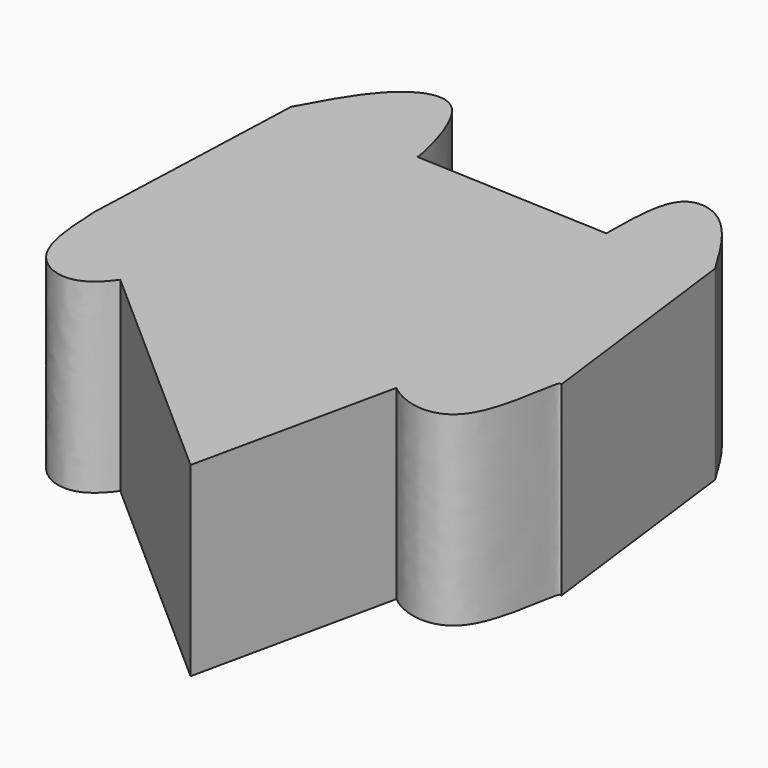
from build123d import *

# Parameters (mm, degrees)
F1_DEPTH = 25


with BuildPart() as f1:
    # F0 (on Top) → F1 (new body)
    with BuildSketch(Plane.XY):
        with BuildLine():
            Line((-18.293430627, 0), (-37.4506600201, 31.5296053886))
            Line((-37.4506600201, 31.5296053886), (-38.6348702013, 0))
            Line((-38.6348702013, 0), (-26.8903197752, -10.3558365563))
            add(Edge.make_bspline(
                [(-26.8903197752, -10.3558365563), (-25.0138511487, -7.7621292657), (-23.3868603398, -3.8810646329), (-21.7598695308, 0)],
                knots=[0.7369926577, 0.7369926577, 0.7369926577, 0.7369926577, 1, 1, 1, 1], degree=3))
            Line((-21.7598695308, 0), (-18.293430627, 0))
        make_face()
        with BuildLine():
            add(Edge.make_bspline(
                [(-37.4506600201, 31.5296053886), (-35.315109491, 35.4914243796), (-31.6617104803, 42.2691172437), (-22.7549071417, 44.5389864619), (-19.8868391117, 31.3424591503), (-19.9717812594, 30.9867953724), (-19.9835542589, 30.937500298)],
                knots=[0, 0, 0, 0, 0.3534616592, 0.6046855171, 0.9452093296, 1, 1, 1, 1], degree=3))
            Line((-37.4506600201, 31.5296053886), (-18.293430627, 0))
            Line((-18.293430627, 0), (-8.7769662755, 0))
            Line((-8.7769662755, 0), (-19.9534838268, 30.9361488185))
            Line((-19.9534838268, 30.9361488185), (-19.9835542589, 30.937500298))
        make_face()
        with BuildLine():
            Line((-26.8903197752, -10.3558365563), (-38.6348702013, 0))
            add(Edge.make_bspline(
                [(-38.6348702013, 0), (-38.4419358813, -4.256929632), (-38.1024093928, -11.748289226), (-30.8831549051, -14.5997468242), (-27.8644585489, -11.7023183486), (-26.8903197752, -10.3558365563)],
                knots=[0, 0, 0, 0, 0.3412066145, 0.6004565887, 0.7369926577, 0.7369926577, 0.7369926577, 0.7369926577], degree=3))
        make_face()
        Polygon((5.1809218712, -38.6348702013), (-18.293430627, 0), (-21.7598695308, 0), align=None)
        Polygon((-8.7769662755, 0), (-18.293430627, 0), (5.1809218712, -38.6348702013), align=None)
        with BuildLine():
            Line((6.3651325181, 29.7532901168), (-19.9534838268, 30.9361488185))
            Line((-19.9534838268, 30.9361488185), (-8.7769662755, 0))
            Line((-8.7769662755, 0), (5.1809218712, 0))
            add(Edge.make_bspline(
                [(5.1809218712, 0), (5.3907033267, -0.660354955), (5.6004847821, -1.32070991), (5.8157272261, -1.9748633921)],
                knots=[0, 0, 0, 0, 0.0490741852, 0.0490741852, 0.0490741852, 0.0490741852], degree=3))
            Line((5.8157272261, -1.9748633921), (6.3651325181, 29.7532901168))
        make_face()
        with BuildLine():
            add(Edge.make_bspline(
                [(-26.8903197752, -10.3558365563), (-25.0138511487, -7.7621292657), (-23.3868603398, -3.8810646329), (-21.7598695308, 0)],
                knots=[0.7369926577, 0.7369926577, 0.7369926577, 0.7369926577, 1, 1, 1, 1], degree=3))
            Line((-26.8903197752, -10.3558365563), (5.1809218712, -38.6348702013))
            Line((5.1809218712, -38.6348702013), (-21.7598695308, 0))
        make_face()
        Polygon((5.1809218712, 0), (-8.7769662755, 0), (5.1809218712, -38.6348702013), align=None)
        with BuildLine():
            Line((5.1809218712, 0), (5.1809218712, -38.6348702013))
            Line((5.1809218712, -38.6348702013), (5.8157272261, -1.9748633921))
            add(Edge.make_bspline(
                [(5.1809218712, 0), (5.3907033267, -0.660354955), (5.6004847821, -1.32070991), (5.8157272261, -1.9748633921)],
                knots=[0, 0, 0, 0, 0.0490741852, 0.0490741852, 0.0490741852, 0.0490741852], degree=3))
        make_face()
        with BuildLine():
            Line((5.8157272261, -1.9748633921), (5.1809218712, -38.6348702013))
            Line((5.1809218712, -38.6348702013), (11.1034761376, -11.4607974057))
            add(Edge.make_bspline(
                [(5.8157272261, -1.9748633921), (7.0525840803, -5.7338535017), (8.4697652594, -9.288068156), (11.1034761376, -11.4607974057)],
                knots=[0.0490741852, 0.0490741852, 0.0490741852, 0.0490741852, 0.3310712728, 0.3310712728, 0.3310712728, 0.3310712728], degree=3))
        make_face()
        with BuildLine():
            add(Edge.make_bspline(
                [(6.3651325181, 29.7532901168), (6.3947430451, 34.2918495311), (6.4439782834, 41.8383904762), (14.1496668788, 40.8069928969), (17.9473376206, 34.5091520104), (20.2796068043, 30.6414496154)],
                knots=[0, 0, 0, 0, 0.3679740058, 0.6118529357, 1, 1, 1, 1], degree=3))
            Line((6.3651325181, 29.7532901168), (5.8157272261, -1.9748633921))
            add(Edge.make_bspline(
                [(5.8157272261, -1.9748633921), (7.0525840803, -5.7338535017), (8.4697652594, -9.288068156), (11.1034761376, -11.4607974057)],
                knots=[0.0490741852, 0.0490741852, 0.0490741852, 0.0490741852, 0.3310712728, 0.3310712728, 0.3310712728, 0.3310712728], degree=3))
            Line((11.1034761376, -11.4607974057), (20.2796068043, 30.6414496154))
        make_face()
        with BuildLine():
            Line((20.2796068043, 30.6414496154), (11.1034761376, -11.4607974057))
            add(Edge.make_bspline(
                [(11.1034761376, -11.4607974057), (11.2000080599, -11.5404332278), (13.9535287523, -13.7221274774), (22.647914545, -15.1627090559), (23.2770923169, 0.4801138246), (24.0272593597, 0.0569857777), (24.1282898933, 0)],
                knots=[0.3310712728, 0.3310712728, 0.3310712728, 0.3310712728, 0.3414071533, 0.6209883528, 0.9489557035, 1, 1, 1, 1], degree=3))
            Line((24.1282898933, 0), (20.2796068043, 30.6414496154))
        make_face()
    extrude(amount=F1_DEPTH)


solid = f1.part
